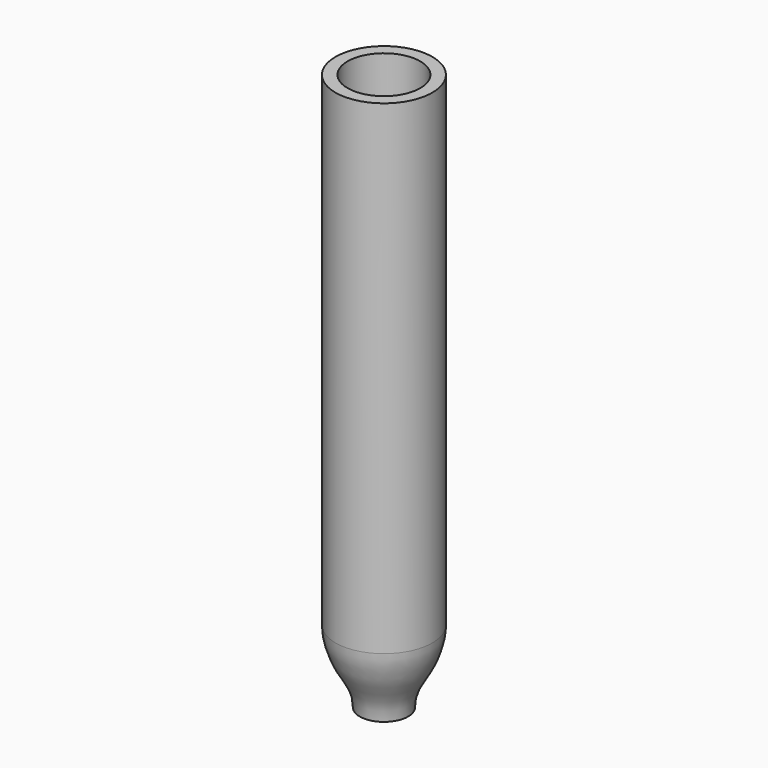
from build123d import *


with BuildPart() as f1:
    # F0 (on Front) → F1 (revolve)
    with BuildSketch(Plane.XZ):
        with BuildLine():
            Line((-1.5, 0), (-1.5, 20))
            Line((-1.5, 20), (-2, 20))
            Line((-2, 20), (-2, 0))
            add(Edge.make_bspline(
                [(-2, 0), (-2.0145455834, -0.422259599), (-1.6127421637, -1.6743650931), (-1, -2.2987052586), (-1, -3)],
                knots=[0, 0, 0, 0, 0.4994220909, 1, 1, 1, 1], degree=3))
            Line((-1, -3), (-0.4, -3))
            add(Edge.make_bspline(
                [(-1.5, 0), (-1.5000039712, -0.319739338), (-1.2286014125, -1.4302417864), (-0.4031962599, -2.400448313), (-0.4, -3)],
                knots=[0, 0, 0, 0, 0.4638515152, 1, 1, 1, 1], degree=3))
        make_face()
    revolve(axis=Axis((0, 0, 8.7161303964), (0, 0, 1)))


solid = f1.part
